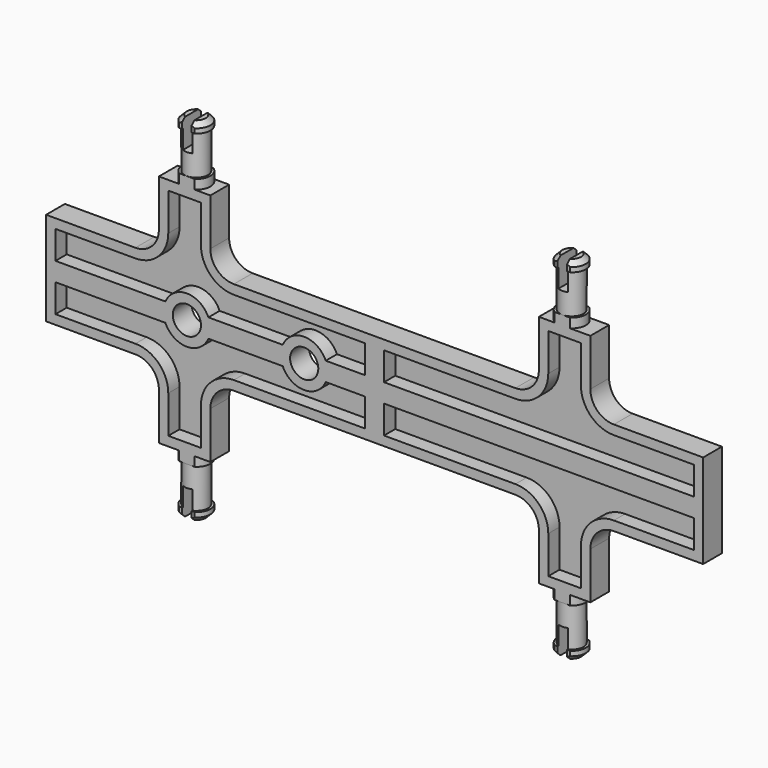
from build123d import *

# Parameters (mm, degrees)
F1_DEPTH  = 2.5
F2_T      = -2
F5_SIZE   = 1
F6_W      = 75
F6_H      = 5
F7_DEPTH  = 37.501
F8_W      = 2
F8_H      = 7.3076855198
F9_DEPTH  = 6
F12_R     = 5
F13_DEPTH = 5
F15_D     = 6


with BuildPart() as f1:
    # F0 (on Front) → F1 (new body, symmetric)
    with BuildSketch(Plane.XZ):
        with BuildLine():
            Line((0, 10), (0, 0))
            Line((0, 0), (70, 0))
            Line((70, 0), (70, 10))
            Line((70, 10), (50.9651945531, 10))
            ThreePointArc((50.9651945531, 10), (47.4296606472, 11.4644660941), (45.9651945531, 15))
            Line((45.9651945531, 15), (45.9651945531, 25))
            Line((45.9651945531, 25), (35, 25))
            Line((35, 25), (35, 15))
            ThreePointArc((35, 15), (33.5355339059, 11.4644660941), (30, 10))
            Line((30, 10), (0, 10))
        make_face()
    extrude(amount=F1_DEPTH, both=True)

    # F2
    f2_openings = [f1.faces().sort_by_distance(p)[0] for p in [
        (36.097562, -2.5, 7.424119),
    ]]
    offset(amount=F2_T, openings=f2_openings)

    # F3 (on Front) → F4 (revolve)
    with BuildSketch(Plane.XZ):
        Polygon((37, 25), (40, 25), (40, 37.5), (37, 37.5), (37, 35.5), (37.5, 35.5), (37.5, 27), (37, 27), align=None)
    revolve(axis=Axis((40, 0, 31.25), (0, 0, 1)))

    # F5
    f5_edges = [f1.edges().sort_by_distance(p)[0] for p in [
        (43, 0, 37.5),
    ]]
    chamfer(f5_edges, length=F5_SIZE)

    # F6 (on face) → F7 (intersect, through all)
    with BuildSketch(Plane.XY.offset(37.5)):
        with Locations((37.5, 0)):
            Rectangle(F6_W, F6_H)
    extrude(amount=-F7_DEPTH, mode=Mode.INTERSECT)

    # F8 (on face) → F9 (cut)
    with BuildSketch(Plane.XY.offset(37.5)):
        with Locations((40, 0.2174844267)):
            Rectangle(F8_W, F8_H)
    extrude(amount=-F9_DEPTH, mode=Mode.SUBTRACT)

    # F10: F1 across plane


with BuildPart() as f1_1:
    add(f1.part)
    add(f1.part.mirror(Plane.XY))

    # F11: F1 across plane


with BuildPart() as f1_2:
    add(f1_1.part)
    add(f1_1.part.mirror(Plane.YZ))

    # F12 (on face) → F13 (join, through all)
    with BuildSketch(Plane.XZ.offset(2.5)):
        with Locations((-40, 0)):
            Circle(F12_R)
        with Locations((-15, 0)):
            Circle(F12_R)
    extrude(amount=-F13_DEPTH)

    # F15 (through all)
    with Locations(Plane.XZ.offset(2.5)):
        with Locations((-40, 0), (-15, 0)):
            Hole(F15_D / 2)


solid = f1_2.part
